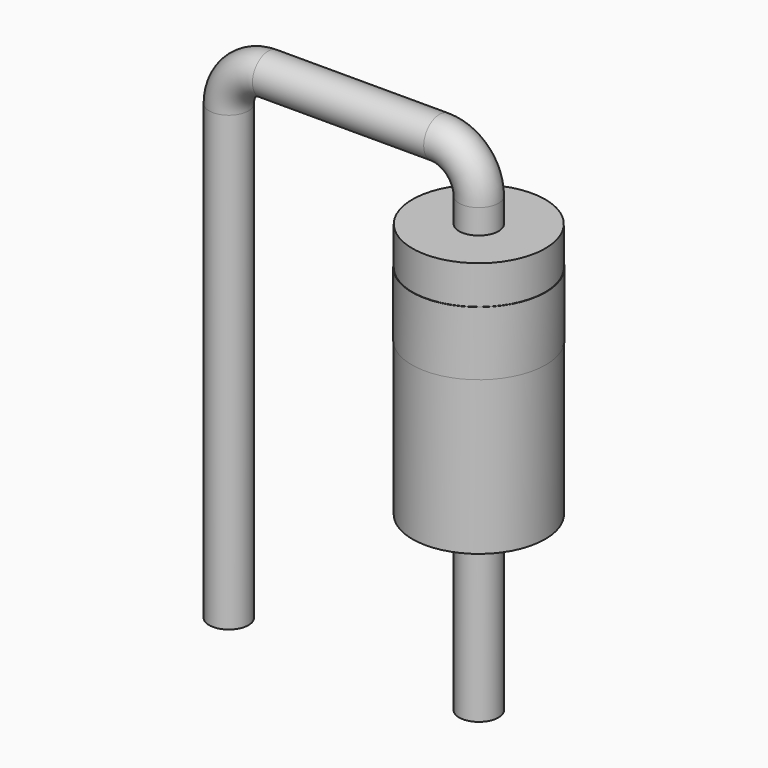
from build123d import *

# Parameters (mm, degrees)
SKETCH001_R = 0.4
SKETCH002_W = 1.35
SKETCH002_H = 5.2
SKETCH003_W = 1.36
SKETCH003_H = 1.3


with BuildPart() as sweep_body:
    # Sweep: sweep along a path in Sketch
    with BuildLine(Plane.XZ) as sweep_path:
        Line((0, -3), (0, 6.2))
        ThreePointArc((0, 6.2), (0.234315, 6.765685), (0.8, 7))
        Line((0.8, 7), (4.28, 7))
        ThreePointArc((4.28, 7), (4.845685, 6.765685), (5.08, 6.2))
        Line((5.08, 6.2), (5.08, -3))
    # Sketch001 → Sweep (sweep)
    with BuildSketch(Plane.XY):
        Circle(SKETCH001_R)
    sweep(path=sweep_path.line)


with BuildPart() as revolution:
    # Sketch002 → Revolution (revolve)
    with BuildSketch(Plane.XZ):
        with Locations((5.755, 3.1)):
            Rectangle(SKETCH002_W, SKETCH002_H)
    revolve(axis=Axis((5.08, 0, 0.5), (0, 0, 1)))


with BuildPart() as revolution001:
    # Sketch003 → Revolution001 (revolve)
    with BuildSketch(Plane.XZ):
        with Locations((5.76, 4.27)):
            Rectangle(SKETCH003_W, SKETCH003_H)
    revolve(axis=Axis((5.08, 0, 3.62), (0, 0, 1)))


solid = Compound([sweep_body.part, revolution.part, revolution001.part])
